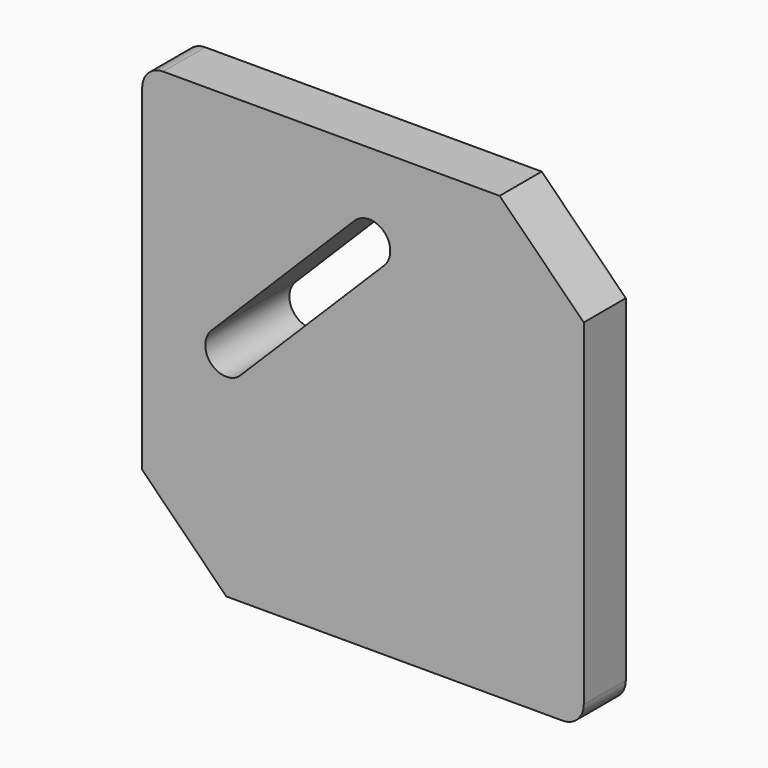
from build123d import *

# Parameters (mm, degrees)
F1_DEPTH = 50
F2_DEPTH = 25
F4_DEPTH = 5
F5_R     = 5


with BuildPart() as f1:
    # F0 (on Front) → F1 (new body)
    with BuildSketch(Plane.XZ):
        with BuildLine():
            Line((-14.1471050896, 14.137164411), (-81.6470713128, -53.4102650408))
            ThreePointArc((-81.6470713128, -53.4102650408), (-81.4172585272, -82.8327909518), (-52.1131197981, -80.1860385553))
            Line((-52.1131197981, -80.1860385553), (14.1195211891, -14.1647139537))
            ThreePointArc((14.1195211891, -14.1647139537), (14.1509459034, 14.133319852), (-14.1471050896, 14.137164411))
        make_face()
        with BuildLine():
            ThreePointArc((-7.0735915388, 7.0685431839), (7.0736510846, 7.068483595), (7.0633719628, -7.0787552942))
            Line((7.0633719628, -7.0787552942), (-62.1351958298, -76.1269429069))
            ThreePointArc((-62.1351958298, -76.1269429069), (-75.7541474378, -74.3104584003), (-74.7048583437, -60.6110258843))
            Line((-74.7048583437, -60.6110258843), (-7.0735915388, 7.0685431839))
        make_face(mode=Mode.SUBTRACT)
    extrude(amount=-F1_DEPTH)

    # F0 (on Front) → F2 (join)
    with BuildSketch(Plane.XZ):
        with BuildLine():
            Line((102.0160578582, -0.0157058509), (62.0160578582, 39.9842941491))
            Line((62.0160578582, 39.9842941491), (-97.9839421418, 39.9842941491))
            ThreePointArc((-97.9839421418, 39.9842941491), (-105.0550099537, 37.055361961), (-107.9839421418, 29.9842941491))
            Line((-107.9839421418, 29.9842941491), (-107.9839421418, -130.0157058509))
            Line((-107.9839421418, -130.0157058509), (-67.9839421418, -170.0157058509))
            Line((-67.9839421418, -170.0157058509), (92.0160578582, -170.0157058509))
            ThreePointArc((92.0160578582, -170.0157058509), (99.0871256701, -167.0867736627), (102.0160578582, -160.0157058509))
            Line((102.0160578582, -160.0157058509), (102.0160578582, -0.0157058509))
        make_face()
        with BuildLine():
            ThreePointArc((93.0160578582, -91.0157058509), (90.0871256701, -98.0867736627), (83.0160578582, -101.0157058509))
            Line((83.0160578582, -101.0157058509), (57.0160578582, -101.0157058509))
            ThreePointArc((57.0160578582, -101.0157058509), (40.0454951097, -108.0451431024), (33.0160578582, -125.0157058509))
            Line((33.0160578582, -125.0157058509), (33.0160578582, -151.0157058509))
            ThreePointArc((33.0160578582, -151.0157058509), (30.0871256701, -158.0867736627), (23.0160578582, -161.0157058509))
            Line((23.0160578582, -161.0157058509), (-33.9839421418, -161.0157058509))
            ThreePointArc((-33.9839421418, -161.0157058509), (-41.0550099537, -158.0867736627), (-43.9839421418, -151.0157058509))
            Line((-43.9839421418, -151.0157058509), (-43.9839421418, -119.263347337))
            ThreePointArc((-43.9839421418, -119.263347337), (-41.9657763558, -113.2392023702), (-36.7258776257, -109.6466020559))
            ThreePointArc((-36.7258776257, -109.6466020559), (12.6262309135, -80.6258789061), (41.6469540632, -31.273770367))
            ThreePointArc((41.6469540632, -31.273770367), (45.2395543775, -26.0338716369), (51.2636993443, -24.0157058509))
            Line((51.2636993443, -24.0157058509), (83.0160578582, -24.0157058509))
            ThreePointArc((83.0160578582, -24.0157058509), (90.0871256701, -26.944638039), (93.0160578582, -34.0157058509))
            Line((93.0160578582, -34.0157058509), (93.0160578582, -91.0157058509))
        make_face(mode=Mode.SUBTRACT)
        with BuildLine():
            ThreePointArc((-52.1131197981, -80.1860385553), (-81.4172585272, -82.8327909518), (-81.6470713128, -53.4102650408))
            Line((-81.6470713128, -53.4102650408), (-14.1471050896, 14.137164411))
            ThreePointArc((-14.1471050896, 14.137164411), (14.1509459034, 14.133319852), (14.1195211891, -14.1647139537))
            Line((14.1195211891, -14.1647139537), (-52.1131197981, -80.1860385553))
        make_face(mode=Mode.SUBTRACT)
    extrude(amount=-F2_DEPTH)

    # F3 (on face) → F4 (join)
    with BuildSketch(Plane.XZ):
        with BuildLine():
            ThreePointArc((51.2636993443, -24.0157058509), (45.2395543775, -26.0338716369), (41.6469540632, -31.273770367))
            ThreePointArc((41.6469540632, -31.273770367), (12.6262309135, -80.6258789061), (-36.7258776257, -109.6466020559))
            ThreePointArc((-36.7258776257, -109.6466020559), (-41.9657763558, -113.2392023702), (-43.9839421418, -119.263347337))
            Line((-43.9839421418, -119.263347337), (-43.9839421418, -151.0157058509))
            ThreePointArc((-43.9839421418, -151.0157058509), (-41.0550099537, -158.0867736627), (-33.9839421418, -161.0157058509))
            Line((-33.9839421418, -161.0157058509), (23.0160578582, -161.0157058509))
            ThreePointArc((23.0160578582, -161.0157058509), (30.0871256701, -158.0867736627), (33.0160578582, -151.0157058509))
            Line((33.0160578582, -151.0157058509), (33.0160578582, -125.0157058509))
            ThreePointArc((33.0160578582, -125.0157058509), (40.0454951097, -108.0451431024), (57.0160578582, -101.0157058509))
            Line((57.0160578582, -101.0157058509), (83.0160578582, -101.0157058509))
            ThreePointArc((83.0160578582, -101.0157058509), (90.0871256701, -98.0867736627), (93.0160578582, -91.0157058509))
            Line((93.0160578582, -91.0157058509), (93.0160578582, -34.0157058509))
            ThreePointArc((93.0160578582, -34.0157058509), (90.0871256701, -26.944638039), (83.0160578582, -24.0157058509))
            Line((83.0160578582, -24.0157058509), (51.2636993443, -24.0157058509))
        make_face()
    extrude(amount=-F4_DEPTH)

    # F5
    f5_edges = [f1.edges().sort_by_distance(p)[0] for p in [
        (67.139879, 5, -24.015706),
        (83.016058, 15, -24.015706),
        (67.139879, 25, -24.015706),
        (51.263699, 15, -24.015706),
        (45.239554, 5, -26.033872),
        (12.626231, 5, -80.625879),
        (-41.965776, 5, -113.239202),
        (-43.983942, 5, -135.139527),
        (-41.05501, 5, -158.086774),
        (-5.483942, 5, -161.015706),
        (30.087126, 5, -158.086774),
        (33.016058, 5, -138.015706),
        (40.045495, 5, -108.045143),
        (70.016058, 5, -101.015706),
        (90.087126, 5, -98.086774),
        (93.016058, 5, -62.515706),
        (90.087126, 5, -26.944638),
    ]]
    fillet(f5_edges, radius=F5_R)


solid = f1.part
